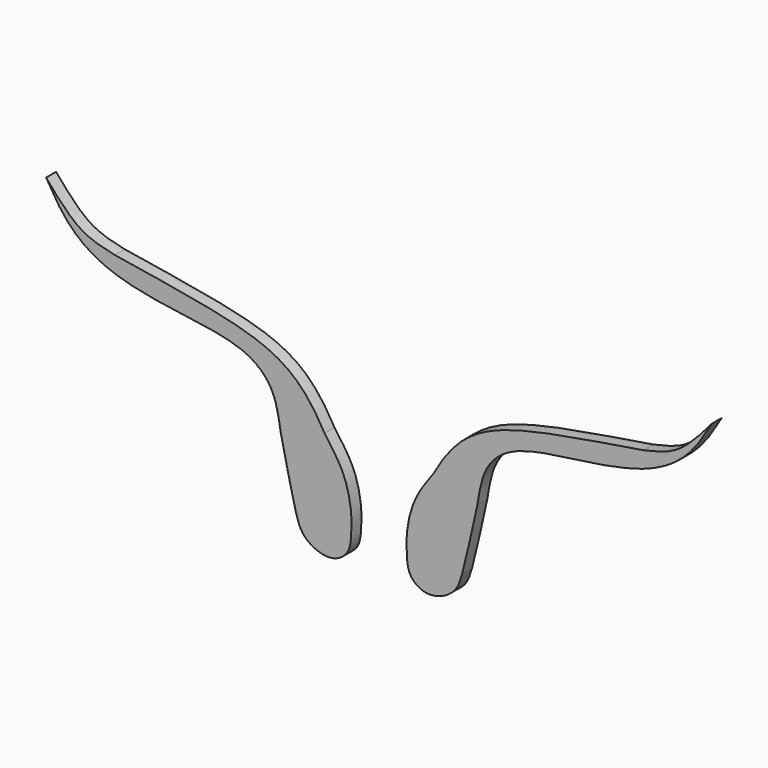
from build123d import *

# Parameters (mm, degrees)
F1_DEPTH = 3.81


with BuildPart() as f1:
    # F0 (on Front) → F1 (new body)
    with BuildSketch(Plane.XZ):
        with BuildLine():
            add(Edge.make_bspline(
                [(-80.9227228165, 36.5009121597), (-84.4114951271, 37.2566644975), (-92.021204014, 38.9051112201), (-98.4602618845, 46.4379539966), (-101.947247982, 50.5172647536)],
                knots=[0, 0, 0, 0, 0.4584633082, 1, 1, 1, 1], degree=3))
            add(Edge.make_bspline(
                [(-101.947247982, 50.5172647536), (-99.7652266569, 46.8208882281), (-95.2738994905, 39.212513317), (-82.743377723, 30.7934255026), (-61.8941340701, 27.2500963872), (-41.3706732624, 25.0422771321), (-31.9281283345, 16.7335131753), (-30.7184478483, 9.0825769547), (-30.1134530455, 5.2561312914)],
                knots=[0, 0, 0, 0, 0.1540171887, 0.3170187091, 0.5168148193, 0.712020335, 0.8559733726, 1, 1, 1, 1], degree=3))
            add(Edge.make_bspline(
                [(-30.1134530455, 5.2561312914), (-29.3431401757, 1.7120756568), (-27.8336650872, -5.2327176899), (-26.2277316259, -11.7170928955), (-25.4413355142, -14.8923723027)],
                knots=[0, 0, 0, 0, 0.510318372, 1, 1, 1, 1], degree=3))
            add(Edge.make_bspline(
                [(-25.4413355142, -14.8923723027), (-24.8588019304, -16.8341384973), (-23.7313898361, -21.0905428869), (-15.19658639, -25.0482374652), (-8.7656645044, -20.9676602248), (-8.5111044461, -14.7159924758), (-8.2149819894, -9.5616014137), (-10.21901269, 0.6512570295), (-14.4878192175, 6.2828547617), (-16.6811160743, 9.3442332)],
                knots=[0, 0, 0, 0, 0.1302486577, 0.2811809787, 0.4142814023, 0.5394522052, 0.6599707627, 0.8255001139, 1, 1, 1, 1], degree=3))
            add(Edge.make_bspline(
                [(-16.6811160743, 9.3442332), (-18.6130808959, 12.8379221253), (-23.5966416898, 20.5236615159), (-36.3151449202, 28.7648939703), (-61.5689376617, 33.4230811157), (-74.7965690841, 35.5252179936), (-80.9227228165, 36.5009121597)],
                knots=[0, 0, 0, 0, 0.2097425071, 0.4376267239, 0.7364768819, 1, 1, 1, 1], degree=3))
        make_face()
    extrude(amount=F1_DEPTH)


with BuildPart() as f1b:
    # F0 (on Front) → F1, piece 2 (new body)
    with BuildSketch(Plane.XZ):
        with BuildLine():
            add(Edge.make_bspline(
                [(101.947247982, 50.5172647536), (99.7652266569, 46.8208882281), (95.2738994905, 39.212513317), (82.743377723, 30.7934255026), (61.8941340701, 27.2500963872), (41.3706732624, 25.0422771321), (31.9281283345, 16.7335131753), (30.7184478483, 9.0825769547), (30.1134530455, 5.2561312914)],
                knots=[0, 0, 0, 0, 0.1540171887, 0.3170187091, 0.5168148193, 0.712020335, 0.8559733726, 1, 1, 1, 1], degree=3))
            add(Edge.make_bspline(
                [(80.9227228165, 36.5009121597), (84.4114951271, 37.2566644975), (92.021204014, 38.9051112201), (98.4602618845, 46.4379539966), (101.947247982, 50.5172647536)],
                knots=[0, 0, 0, 0, 0.4584633082, 1, 1, 1, 1], degree=3))
            add(Edge.make_bspline(
                [(16.6811160743, 9.3442332), (18.6130808959, 12.8379221253), (23.5966416898, 20.5236615159), (36.3151449202, 28.7648939703), (61.5689376617, 33.4230811157), (74.7965690841, 35.5252179936), (80.9227228165, 36.5009121597)],
                knots=[0, 0, 0, 0, 0.2097425071, 0.4376267239, 0.7364768819, 1, 1, 1, 1], degree=3))
            add(Edge.make_bspline(
                [(25.4413355142, -14.8923723027), (24.8588019304, -16.8341384973), (23.7313898361, -21.0905428869), (15.19658639, -25.0482374652), (8.7656645044, -20.9676602248), (8.5111044461, -14.7159924758), (8.2149819894, -9.5616014137), (10.21901269, 0.6512570295), (14.4878192175, 6.2828547617), (16.6811160743, 9.3442332)],
                knots=[0, 0, 0, 0, 0.1302486577, 0.2811809787, 0.4142814023, 0.5394522052, 0.6599707627, 0.8255001139, 1, 1, 1, 1], degree=3))
            add(Edge.make_bspline(
                [(30.1134530455, 5.2561312914), (29.3431401757, 1.7120756568), (27.8336650872, -5.2327176899), (26.2277316259, -11.7170928955), (25.4413355142, -14.8923723027)],
                knots=[0, 0, 0, 0, 0.510318372, 1, 1, 1, 1], degree=3))
        make_face()
    extrude(amount=F1_DEPTH)


solid = Compound([f1.part, f1b.part])
